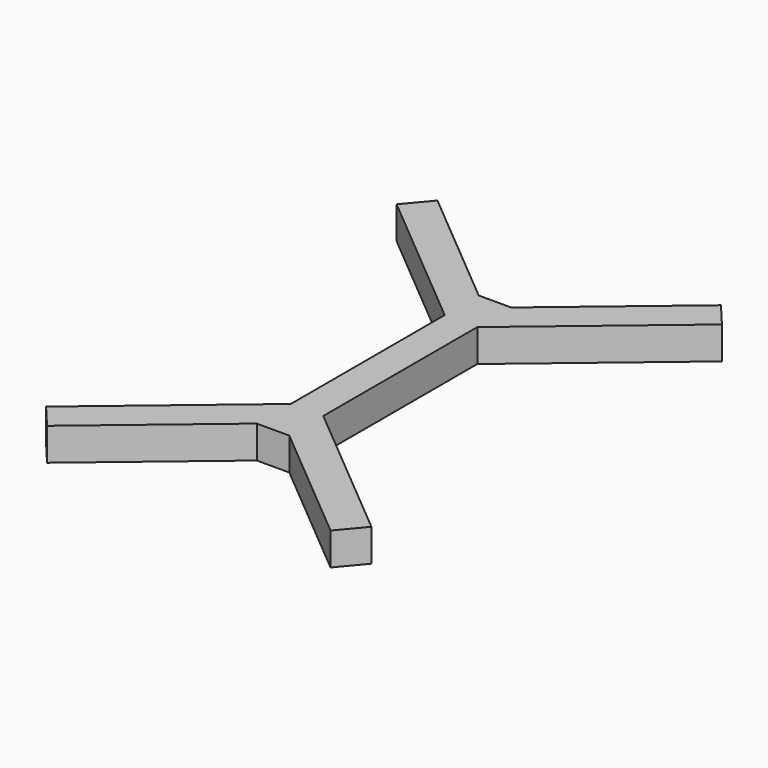
from build123d import *

# Parameters (mm, degrees)
F1_DEPTH = 5


with BuildPart() as f1:
    # F0 (on Top) → F1 (new body, symmetric)
    with BuildSketch(Plane.XY):
        Polygon((5, 42.634145), (-5, 42.634145), (-43.572124, 75), (-50, 67.339556), (-5, 29.580072), (-5, -29.580072), (-50, -67.339556), (-43.572124, -75), (-5, -42.634145), (5, -42.634145), (43.572124, -75), (50, -67.339556), (5, -29.580072), (5, 29.580072), (50, 67.339556), (43.572124, 75), align=None)
    extrude(amount=F1_DEPTH, both=True)


solid = f1.part
